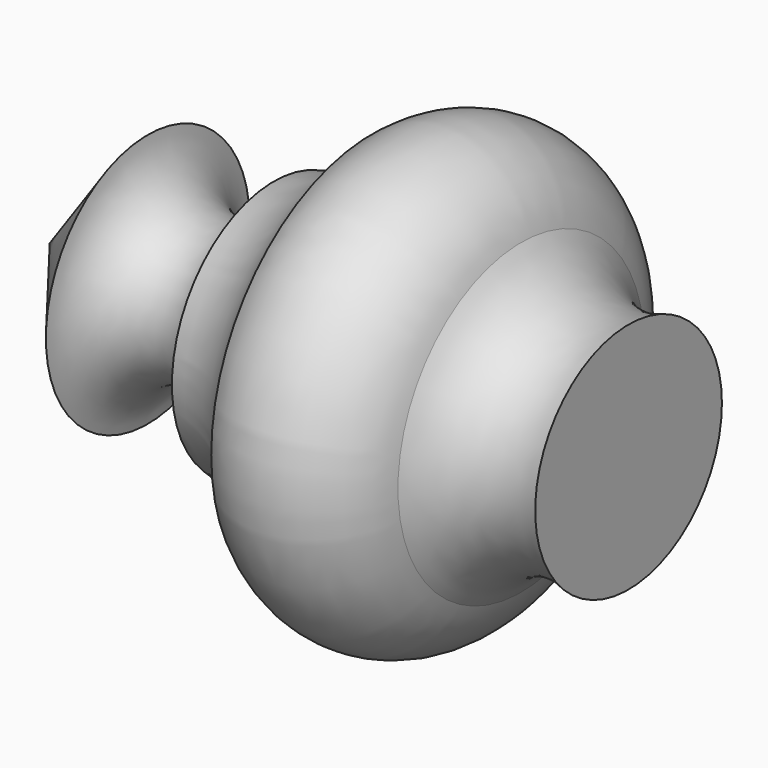
from build123d import *


with BuildPart() as f1:
    # F0 (on Top) → F1 (revolve)
    with BuildSketch(Plane.XY):
        with BuildLine():
            Line((-19.531852, 24.952643), (-26.120912, 16.394205))
            Line((-26.120912, 16.394205), (12.785911, 16.394205))
            Line((12.785911, 16.394205), (12.785911, 24.238324))
            ThreePointArc((12.785911, 24.238324), (8.715774, 24.165583), (5.569324, 26.748441))
            ThreePointArc((5.569324, 26.748441), (1.386227, 30.996106), (-4.471147, 29.886087))
            ThreePointArc((-4.471147, 29.886087), (-7.198761, 26.662201), (-11.060203, 24.952643))
            ThreePointArc((-11.060203, 24.952643), (-15.296028, 21.097784), (-19.531852, 24.952643))
        make_face()
    revolve(axis=Axis((-6.667501, 16.394205, 0), (1, 0, 0)))


solid = f1.part
